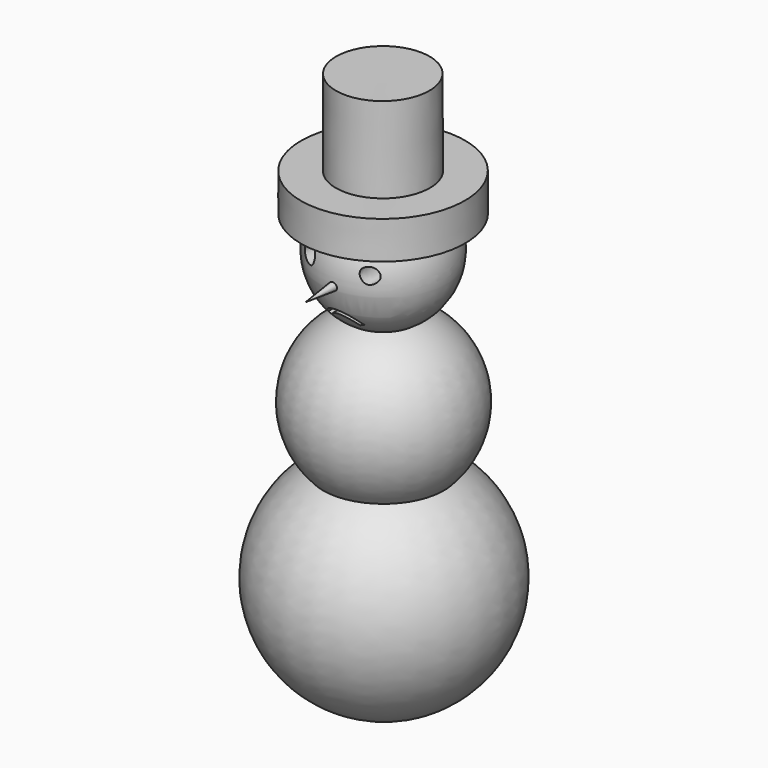
from build123d import *

# Parameters (mm, degrees)
F4_R     = 2.9313934917
F6_DEPTH = 25.4


with BuildPart() as f1:
    # F0 (on Front) → F1 (revolve)
    with BuildSketch(Plane.XZ):
        with BuildLine():
            ThreePointArc((-8.6470126601, 59.8095870837), (-21.4016690603, 44.0535851857), (-15.695191047, 24.6018766648))
            ThreePointArc((-15.695191047, 24.6018766648), (-28.0136061915, -8.1749144079), (0, -29.1820382673))
            Line((0, -29.1820382673), (-0.3967727534, 114.0140891075))
            Line((-0.3967727534, 114.0140891075), (-12.4211851507, 114.0140891075))
            Line((-12.4211851507, 114.0140891075), (-12.4211851507, 92.0014604926))
            Line((-12.4211851507, 92.0014604926), (-21.4189756662, 92.0014604926))
            Line((-21.4189756662, 92.0014604926), (-21.4189756662, 82.3283791542))
            Line((-21.4189756662, 82.3283791542), (-14.9194911479, 82.3283791542))
            ThreePointArc((-14.9194911479, 82.3283791542), (-16.2978226924, 69.8114756975), (-8.6470126601, 59.8095870837))
        make_face()
    revolve(axis=Axis((-0.1983863767, 0, 42.4160254201), (0.0027708237, 0, -0.9999961613)))

    # F4 (on Front) → F5 section 0
    with BuildSketch(Plane.XZ, mode=Mode.PRIVATE) as f5_s0:
        with Locations((0, 72.6552978158)):
            Circle(F4_R)
    loft([Vertex(0, -25.4, 72.6552978158), f5_s0.sketch])

    # F3 (on offset) → F6 (cut)
    with BuildSketch(Plane.XZ.offset(25.4)):
        with BuildLine():
            add(Edge.make_bspline(
                [(-8.0269714817, 79.5348510146), (-8.6846337437, 79.4264052352), (-9.8414942897, 78.1450545351), (-9.497142748, 75.3585343357), (-5.8915269462, 74.1267113958), (-5.1057227017, 77.4839777864), (-5.9214182567, 78.8940297376), (-7.3670372691, 79.6436714293), (-8.0269714817, 79.5348510146)],
                knots=[0, 0, 0, 0, 0.1593701812, 0.3340862186, 0.5188256822, 0.6983768822, 0.8400792609, 1, 1, 1, 1], degree=3))
        make_face()
        with BuildLine():
            add(Edge.make_bspline(
                [(8.3799511194, 78.3284604549), (7.624080444, 78.6857899226), (5.8447857804, 78.4029369239), (5.6907424207, 76.3172160457), (7.506583602, 73.9429964977), (10.3601830594, 76.0452757725), (9.1859243667, 77.9474455529), (8.3799511194, 78.3284604549)],
                knots=[0, 0, 0, 0, 0.1981616253, 0.3732706853, 0.5804624626, 0.7887033142, 1, 1, 1, 1], degree=3))
        make_face()
        with BuildLine():
            Line((3.1171578952, 62.8545942359), (4.2782197706, 63.3692070842))
            ThreePointArc((4.2782197706, 63.3692070842), (-0.4267061595, 66.4302188327), (-5.1316320896, 63.3692070842))
            Line((-5.1316320896, 63.3692070842), (-3.9705702142, 62.8545942359))
            ThreePointArc((-3.9705702142, 62.8545942359), (-0.4267061595, 65.1602223516), (3.1171578952, 62.8545942359))
        make_face()
    extrude(amount=-F6_DEPTH, mode=Mode.SUBTRACT)


solid = f1.part
